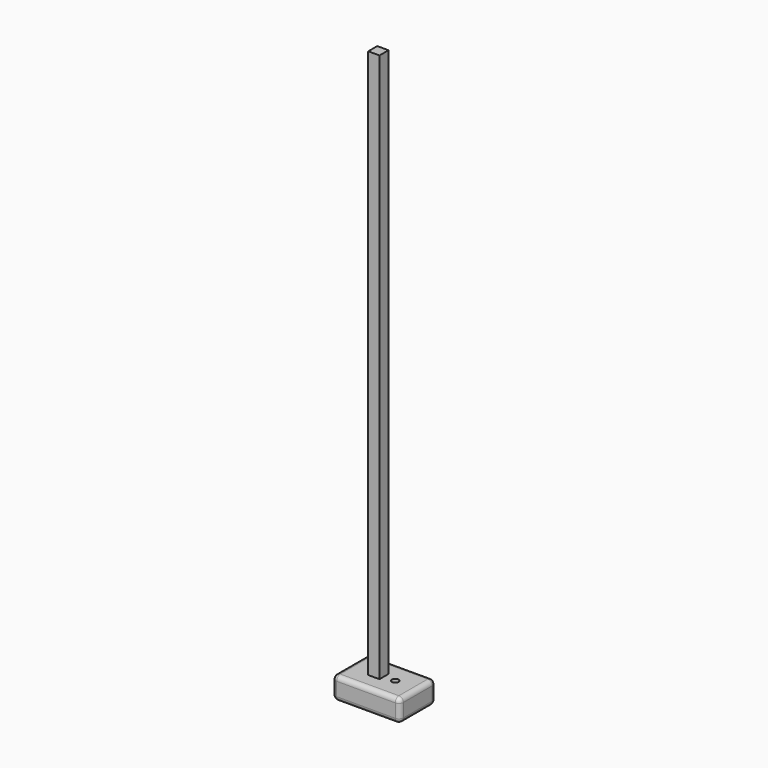
from build123d import *

# Parameters (mm, degrees)
F0_W     = 60
F0_H     = 20
F1_DEPTH = 40
F3_R     = 4
F4_D     = 6
F5_W     = 10
F5_H     = 10
F6_DEPTH = 508


with BuildPart() as f1:
    # F0 (on Front) → F1 (new body)
    with BuildSketch(Plane.XZ):
        with Locations((30, -10)):
            Rectangle(F0_W, F0_H)
    extrude(amount=F1_DEPTH)

    # F3
    f3_edges = [f1.edges().sort_by_distance(p)[0] for p in [
        (60, 0, -10),
        (0, -20, -20),
        (0, 0, -10),
        (0, -20, 0),
        (0, -40, -10),
        (60, -20, -20),
        (60, -40, -10),
        (60, -20, 0),
        (30, -40, 0),
        (30, -40, -20),
        (30, 0, -20),
        (30, 0, 0),
    ]]
    fillet(f3_edges, radius=F3_R)

    # F4 (through all)
    with Locations(Plane.XY):
        with Locations((40, -20)):
            Hole(F4_D / 2)

    # F5 (on face) → F6 (join)
    with BuildSketch(Plane(origin=(0, 0, -20), x_dir=(1, 0, 0), z_dir=(0, 0, -1))):
        with Locations((25, 20)):
            Rectangle(F5_W, F5_H)
    extrude(amount=-F6_DEPTH)


solid = f1.part
